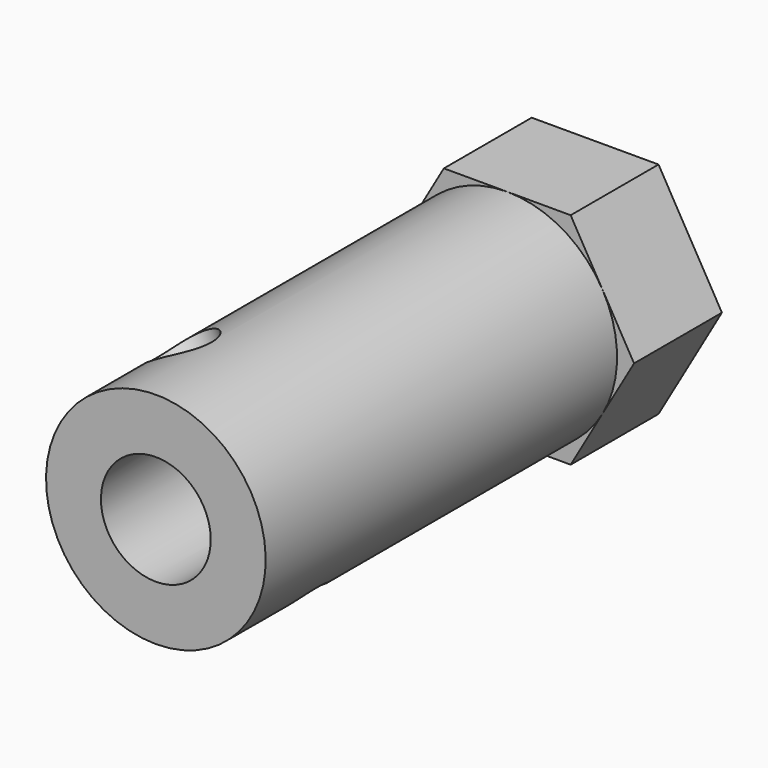
from build123d import *

# Parameters (mm, degrees)
PAD065_DEPTH            = 6
SKETCH101_R             = 6
PAD066_DEPTH            = 24
SKETCH102_R             = 3
POCKET024_DEPTH         = 24.5
SKETCH103_R             = 1.75
POCKET025_DEPTH         = 6
SKETCH104_R             = 1.75
POCKET026_DEPTH         = 7
BODY057_ROLL_ANGLE      = 90.00003
BODY057_PITCH_ANGLE     = -30.000033
BODY057_PLACEMENT_ANGLE = -8e-06


with BuildPart() as part:
    # Sketch100 → Pad065 (new body)
    with BuildSketch(Plane.XY):
        Polygon((6, 3.464102), (0, 6.928203), (-6, 3.464102), (-6, -3.464102), (0, -6.928203), (6, -3.464102), align=None)
    extrude(amount=PAD065_DEPTH)

    # Sketch101 (on Face8 of Pad065) → Pad066 (join)
    with BuildSketch(Plane.XY.offset(6)):
        Circle(SKETCH101_R)
    extrude(amount=PAD066_DEPTH)

    # Sketch102 (on Face15 of Pad066) → Pocket024 (cut)
    with BuildSketch(Plane.XY.offset(30)):
        Circle(SKETCH102_R)
    extrude(amount=-POCKET024_DEPTH, mode=Mode.SUBTRACT)

    # Sketch103 (on Face4 of Pocket024) → Pocket025 (cut)
    with BuildSketch(Plane(origin=(0, 0, 0), x_dir=(1, 0, 0), z_dir=(0, 0, -1))):
        Circle(SKETCH103_R)
    extrude(amount=-POCKET025_DEPTH, mode=Mode.SUBTRACT)

    # Sketch104 → Pocket026 (cut, symmetric)
    with BuildSketch(Plane.XZ):
        with Locations((0, 24.5)):
            Circle(SKETCH104_R)
    extrude(amount=POCKET026_DEPTH, both=True, mode=Mode.SUBTRACT)


with BuildPart() as part_1:
    # Body057 roll: moved
    add(part.part.rotate(Axis((0, 0, 0), (1, 0, 0)), BODY057_ROLL_ANGLE))


with BuildPart() as part_2:
    # Body057 pitch: moved
    add(part_1.part.rotate(Axis((0, 0, 0), (0, 1, 0)), BODY057_PITCH_ANGLE))


with BuildPart() as part_3:
    # Body057 placement: moved
    add(part_2.part.moved(Location((0, 10.3, 0))).rotate(Axis((0, 10.3, 0), (0, 0, 1)), BODY057_PLACEMENT_ANGLE))


solid = part_3.part
